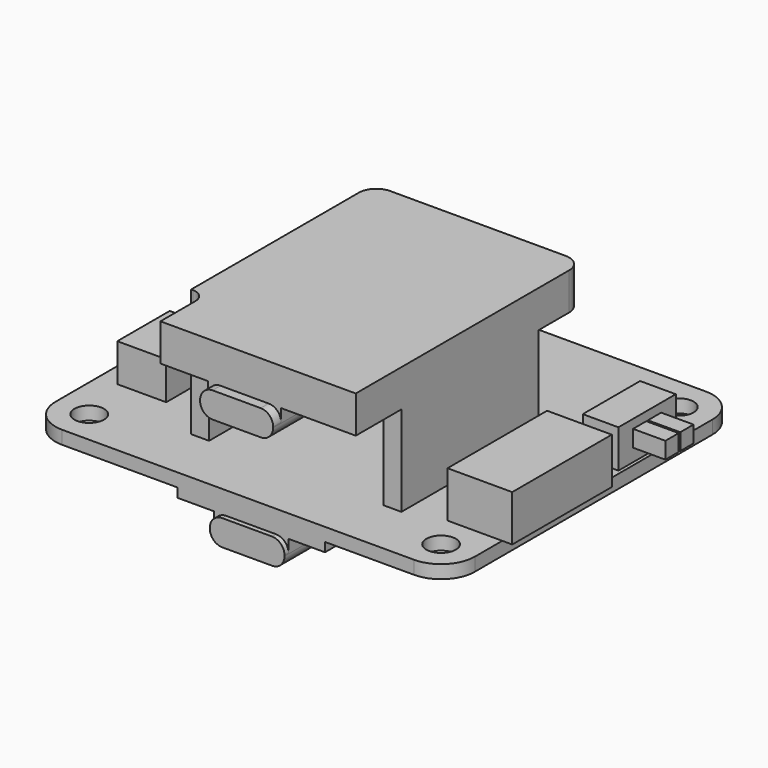
from build123d import *

# Parameters (mm, degrees)
SKETCH_R     = 1.778
PAD_DEPTH    = 1.6
SKETCH001_W  = 2.16
SKETCH001_H  = 20.66
PAD001_DEPTH = 10.88
PAD002_DEPTH = 4.48
SKETCH003_W  = 8.8
SKETCH003_H  = 7.28
PAD003_DEPTH = 3.1
FILLET_R     = 1.5
SKETCH004_W  = 17.8
SKETCH004_H  = 28.4
PAD004_DEPTH = 1.1
SKETCH005_W  = 9
SKETCH005_H  = 6.8
PAD005_DEPTH = 3.1
FILLET001_R  = 1.5
SKETCH006_W  = 7.8
SKETCH006_H  = 15
PAD006_DEPTH = 5.56
SKETCH007_W  = 4.3
SKETCH007_H  = 8.64
PAD007_DEPTH = 4.6
SKETCH008_W  = 2
SKETCH008_H  = 2
PAD008_DEPTH = 3.9
SKETCH009_W  = 5.9
SKETCH009_H  = 7.9
PAD009_DEPTH = 4.56
SKETCH010_W  = 10
SKETCH010_H  = 9.7
PAD010_DEPTH = 2.78
SKETCH011_W  = 17.8
SKETCH011_H  = 19
PAD011_DEPTH = 1.3


with BuildPart() as part:
    # Sketch → Pad (new body)
    with BuildSketch(Plane.XY):
        with BuildLine():
            Line((4.064, 0), (46.482, 0))
            ThreePointArc((46.482, 0), (49.355682, 1.190318), (50.546, 4.064))
            Line((50.546, 4.064), (50.546, 39.878))
            ThreePointArc((50.546, 39.878), (49.355682, 42.751682), (46.482, 43.942))
            Line((46.482, 43.942), (4.064, 43.942))
            ThreePointArc((4.064, 43.942), (1.190318, 42.751682), (0, 39.878))
            Line((0, 39.878), (0, 4.064))
            ThreePointArc((0, 4.064), (1.190318, 1.190318), (4.064, 0))
        make_face()
        with Locations((4.064, 39.878)):
            Circle(SKETCH_R, mode=Mode.SUBTRACT)
        with Locations((46.482, 39.878)):
            Circle(SKETCH_R, mode=Mode.SUBTRACT)
        with Locations((46.482, 4.064)):
            Circle(SKETCH_R, mode=Mode.SUBTRACT)
        with Locations((4.064, 4.064)):
            Circle(SKETCH_R, mode=Mode.SUBTRACT)
    extrude(amount=PAD_DEPTH)

    # Sketch001 (on Face14 of Pad) → Pad001 (join)
    with BuildSketch(Plane.XY.offset(1.6)):
        with Locations((15.18, 17.21)):
            Rectangle(SKETCH001_W, SKETCH001_H)
        with Locations((38.366, 17.21)):
            Rectangle(SKETCH001_W, SKETCH001_H)
    extrude(amount=PAD001_DEPTH)

    # Sketch002 (on Face23 of Pad001) → Pad002 (join)
    with BuildSketch(Plane.XY.offset(12.48)):
        with BuildLine():
            Line((14.1, 6.88), (14.1, 32.15))
            ThreePointArc((16.2, 34.25), (14.715076, 33.634924), (14.1, 32.15))
            Line((16.2, 34.25), (37.346, 34.25))
            ThreePointArc((39.446, 32.15), (38.830924, 33.634924), (37.346, 34.25))
            Line((39.446, 0), (39.446, 32.15))
            Line((15.9, 0), (39.446, 0))
            Line((15.9, 5.28), (15.9, 0))
            ThreePointArc((15.9, 5.28), (15.431371, 6.411371), (14.3, 6.88))
            Line((14.1, 6.88), (14.3, 6.88))
        make_face()
    extrude(amount=PAD002_DEPTH)

    # Sketch003 (on Face24 of Pad002) → Pad003 (join)
    with BuildSketch(Plane(origin=(0, 0, 12.48), x_dir=(1, 0, 0), z_dir=(0, 0, -1))):
        with Locations((26.046, -2.44)):
            Rectangle(SKETCH003_W, SKETCH003_H)
    extrude(amount=PAD003_DEPTH)

    # Fillet
    fillet_edges = [part.edges().sort_by_distance(p)[0] for p in [
        (21.646, -0.6, 12.48),
        (30.446, -0.6, 12.48),
        (30.446, 2.44, 9.38),
        (21.646, 2.44, 9.38),
    ]]
    fillet(fillet_edges, radius=FILLET_R)

    # Sketch004 (on Face43 of Fillet) → Pad004 (join)
    with BuildSketch(Plane(origin=(0, 0, 0), x_dir=(1, 0, 0), z_dir=(0, 0, -1))):
        with Locations((26.837, -14.2)):
            Rectangle(SKETCH004_W, SKETCH004_H)
    extrude(amount=PAD004_DEPTH)

    # Sketch005 (on Face48 of Pad004) → Pad005 (join)
    with BuildSketch(Plane(origin=(0, 0, -1.1), x_dir=(1, 0, 0), z_dir=(0, 0, -1))):
        with Locations((26.837, -2.8)):
            Rectangle(SKETCH005_W, SKETCH005_H)
    extrude(amount=PAD005_DEPTH)

    # Fillet001
    fillet001_edges = [part.edges().sort_by_distance(p)[0] for p in [
        (31.337, -0.3, -1.1),
        (22.337, -0.3, -1.1),
        (31.337, 2.8, -4.2),
        (22.337, 2.8, -4.2),
    ]]
    fillet(fillet001_edges, radius=FILLET001_R)

    # Sketch006 (on Face19 of Fillet001) → Pad006 (join)
    with BuildSketch(Plane.XY.offset(1.6)):
        with Locations((47.846, 15.7)):
            Rectangle(SKETCH006_W, SKETCH006_H)
    extrude(amount=PAD006_DEPTH)

    # Sketch007 (on Face19 of Pad006) → Pad007 (join)
    with BuildSketch(Plane.XY.offset(1.6)):
        with Locations((47.996, 30.522)):
            Rectangle(SKETCH007_W, SKETCH007_H)
    extrude(amount=PAD007_DEPTH)

    # Sketch008 (on Face43 of Pad007) → Pad008 (join)
    with BuildSketch(Plane.YZ.offset(50.146)):
        with Locations((31.642, 4.14)):
            Rectangle(SKETCH008_W, SKETCH008_H)
        with Locations((29.402, 4.14)):
            Rectangle(SKETCH008_W, SKETCH008_H)
    extrude(amount=PAD008_DEPTH)

    # Sketch009 (on Face19 of Pad008) → Pad009 (join)
    with BuildSketch(Plane.XY.offset(1.6)):
        with Locations((5.25, 14.45)):
            Rectangle(SKETCH009_W, SKETCH009_H)
    extrude(amount=PAD009_DEPTH)

    # Sketch010 (on Face19 of Pad009) → Pad010 (join)
    with BuildSketch(Plane.XY.offset(1.6)):
        with Locations((6.6, 28.392)):
            Rectangle(SKETCH010_W, SKETCH010_H)
    extrude(amount=PAD010_DEPTH)

    # Sketch011 (on Face7 of Pad010) → Pad011 (join)
    with BuildSketch(Plane(origin=(0, 0, -1.1), x_dir=(1, 0, 0), z_dir=(0, 0, -1))):
        with Locations((26.837, -18.9)):
            Rectangle(SKETCH011_W, SKETCH011_H)
    extrude(amount=PAD011_DEPTH)


solid = part.part
